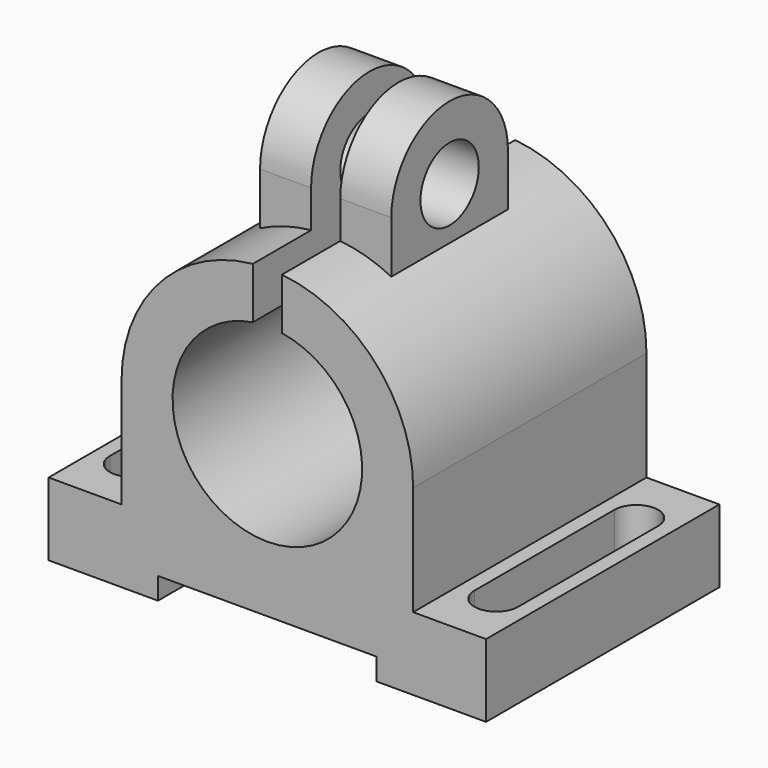
from build123d import *

# Parameters (mm, degrees)
SKETCH_W             = 60
SKETCH_H             = 10
PAD_DEPTH            = 40
PAD001_DEPTH         = 40
SKETCH002_R          = 13
POCKET_DEPTH         = 40
SKETCH003_W          = 30
SKETCH003_H          = 3
POCKET001_DEPTH      = 40.001
POCKET002_DEPTH      = 10.001
POCKET002_DEPTH_BACK = 35.001
PAD002_DEPTH         = 9
SKETCH009_R          = 5
POCKET003_DEPTH      = 18
SKETCH010_W          = 4
SKETCH010_H          = 32.761701
POCKET004_DEPTH      = 40.001


with BuildPart() as part:
    # Sketch → Pad (new body)
    with BuildSketch(Plane.XZ):
        Rectangle(SKETCH_W, SKETCH_H)
    extrude(amount=PAD_DEPTH)

    # Sketch001 (on DatumPlane) → Pad001 (join)
    with BuildSketch(Plane.XZ.offset(40)):
        with BuildLine():
            Line((-20, 5), (-20, 20))
            ThreePointArc((20, 20), (0, 40), (-20, 20))
            Line((20, 20), (20, 5))
            Line((20, 5), (-20, 5))
        make_face()
    extrude(amount=-PAD001_DEPTH)

    # Sketch002 (on DatumPlane) → Pocket (cut)
    with BuildSketch(Plane.XZ.offset(40)):
        with Locations((0, 20)):
            Circle(SKETCH002_R)
    extrude(amount=-POCKET_DEPTH, mode=Mode.SUBTRACT)

    # Sketch003 (on DatumPlane) → Pocket001 (cut, through all)
    with BuildSketch(Plane.XZ.offset(40)):
        with Locations((0, -3.5)):
            Rectangle(SKETCH003_W, SKETCH003_H)
    extrude(amount=-POCKET001_DEPTH, mode=Mode.SUBTRACT)

    # Sketch004 (on DatumPlane) → Pocket002 (cut, two sides)
    with BuildSketch(Plane(origin=(0, 0, 5), x_dir=(-1, 0, 0), z_dir=(0, 0, 1))) as pocket002_sk:
        with BuildLine():
            Line((-28, 8), (-28, 32))
            ThreePointArc((-22, 32), (-25, 35), (-28, 32))
            Line((-22, 32), (-22, 8))
            ThreePointArc((-28, 8), (-25, 5), (-22, 8))
        make_face()
        with BuildLine():
            ThreePointArc((28, 32), (25, 35), (22, 32))
            Line((22, 32), (22, 8))
            ThreePointArc((22, 8), (25, 5), (28, 8))
            Line((28, 8), (28, 32))
        make_face()
    extrude(amount=-POCKET002_DEPTH, mode=Mode.SUBTRACT)
    extrude(pocket002_sk.sketch, amount=POCKET002_DEPTH_BACK, mode=Mode.SUBTRACT)

    # Sketch008 (on DatumPlane) → Pad002 (join, symmetric)
    with BuildSketch(Plane(origin=(0, 0, 20.554794), x_dir=(0, 1, 0), z_dir=(1, 0, 0))):
        with BuildLine():
            Line((-30, 15.33604), (-30, 24.445206))
            ThreePointArc((-10, 24.445206), (-20, 34.445206), (-30, 24.445206))
            Line((-10, 24.445206), (-10, 15.33604))
            Line((-10, 15.33604), (-30, 15.33604))
        make_face()
    extrude(amount=PAD002_DEPTH, both=True)

    # Sketch009 (on Face26 of Pad002) → Pocket003 (cut)
    with BuildSketch(Plane(origin=(9, 0, 0), x_dir=(0, 0, 1), z_dir=(1, 0, 0))):
        with Locations((45, 20)):
            Circle(SKETCH009_R)
    extrude(amount=-POCKET003_DEPTH, mode=Mode.SUBTRACT)

    # Sketch010 (on Face17 of Pocket003) → Pocket004 (cut, through all)
    with BuildSketch(Plane(origin=(0, 0, 0), x_dir=(1, 0, 0), z_dir=(0, 1, 0))):
        with Locations((0, -41.28855)):
            Rectangle(SKETCH010_W, SKETCH010_H)
    extrude(amount=-POCKET004_DEPTH, mode=Mode.SUBTRACT)


solid = part.part
